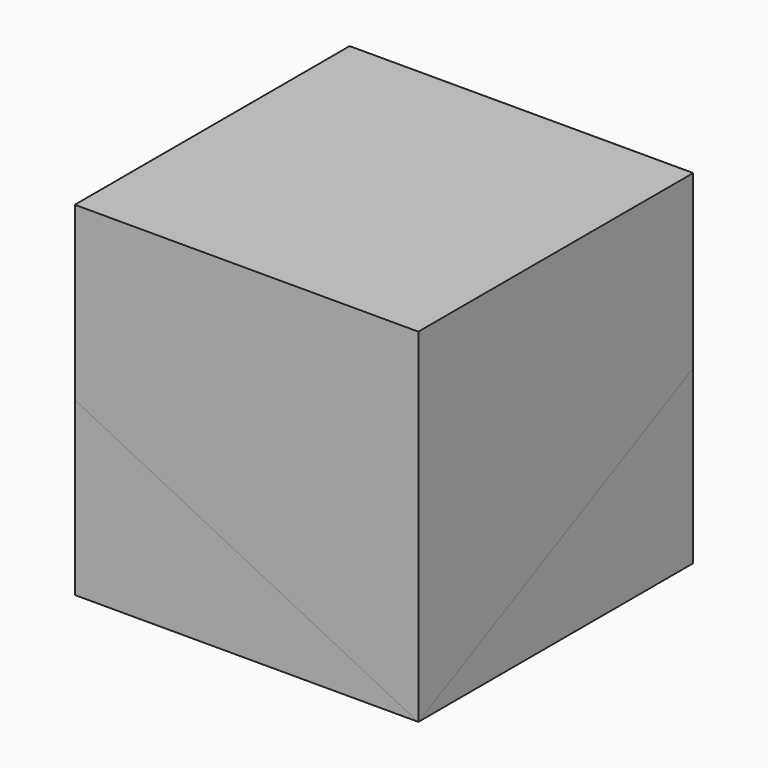
from build123d import *

# Parameters (mm, degrees)
BOX001_W               = 30
BOX001_H               = 30
BOX001_DEPTH           = 30
BOX001_ROLL_ANGLE      = 26.595273
BOX001_PITCH_ANGLE     = 24.117362
BOX001_PLACEMENT_ANGLE = 5.780823
BOX_W                  = 10
BOX_H                  = 10
BOX_DEPTH              = 10
BOX003_W               = 30
BOX003_H               = 30
BOX003_DEPTH           = 30
BOX003_ROLL_ANGLE      = 26.595273
BOX003_PITCH_ANGLE     = 24.117362
BOX003_PLACEMENT_ANGLE = 5.780823
BOX002_W               = 10
BOX002_H               = 10
BOX002_DEPTH           = 10


with BuildPart() as cube001:
    # Box001 → Box001 (new body)
    with BuildSketch(Plane.XY):
        with Locations((15, 15)):
            Rectangle(BOX001_W, BOX001_H)
    extrude(amount=BOX001_DEPTH)


with BuildPart() as cube001_1:
    # Box001 roll: moved
    add(cube001.part.rotate(Axis((0, 0, 0), (1, 0, 0)), BOX001_ROLL_ANGLE))


with BuildPart() as cube001_2:
    # Box001 pitch: moved
    add(cube001_1.part.rotate(Axis((0, 0, 0), (0, 1, 0)), BOX001_PITCH_ANGLE))


with BuildPart() as cube001_3:
    # Box001 placement: moved
    add(cube001_2.part.moved(Location((-15, -15, 0))).rotate(Axis((-15, -15, 0), (0, 0, 1)), BOX001_PLACEMENT_ANGLE))


with BuildPart() as cut:
    # Box → Box (new body)
    with BuildSketch(Plane(origin=(-5, -5, -5), x_dir=(1, 0, 0), z_dir=(0, 0, 1))):
        with Locations((5, 5)):
            Rectangle(BOX_W, BOX_H)
    extrude(amount=BOX_DEPTH)

    # Cut: cut Cube001
    add(cube001_3.part, mode=Mode.SUBTRACT)


with BuildPart() as cube003:
    # Box003 → Box003 (new body)
    with BuildSketch(Plane.XY):
        with Locations((15, 15)):
            Rectangle(BOX003_W, BOX003_H)
    extrude(amount=BOX003_DEPTH)


with BuildPart() as cube003_1:
    # Box003 roll: moved
    add(cube003.part.rotate(Axis((0, 0, 0), (1, 0, 0)), BOX003_ROLL_ANGLE))


with BuildPart() as cube003_2:
    # Box003 pitch: moved
    add(cube003_1.part.rotate(Axis((0, 0, 0), (0, 1, 0)), BOX003_PITCH_ANGLE))


with BuildPart() as cube003_3:
    # Box003 placement: moved
    add(cube003_2.part.moved(Location((-15, -15, 0))).rotate(Axis((-15, -15, 0), (0, 0, 1)), BOX003_PLACEMENT_ANGLE))


with BuildPart() as common:
    # Box002 → Box002 (new body)
    with BuildSketch(Plane(origin=(-5, -5, -5), x_dir=(1, 0, 0), z_dir=(0, 0, 1))):
        with Locations((5, 5)):
            Rectangle(BOX002_W, BOX002_H)
    extrude(amount=BOX002_DEPTH)

    # Common: intersect Cube003
    add(cube003_3.part, mode=Mode.INTERSECT)


solid = Compound([cut.part, common.part])
